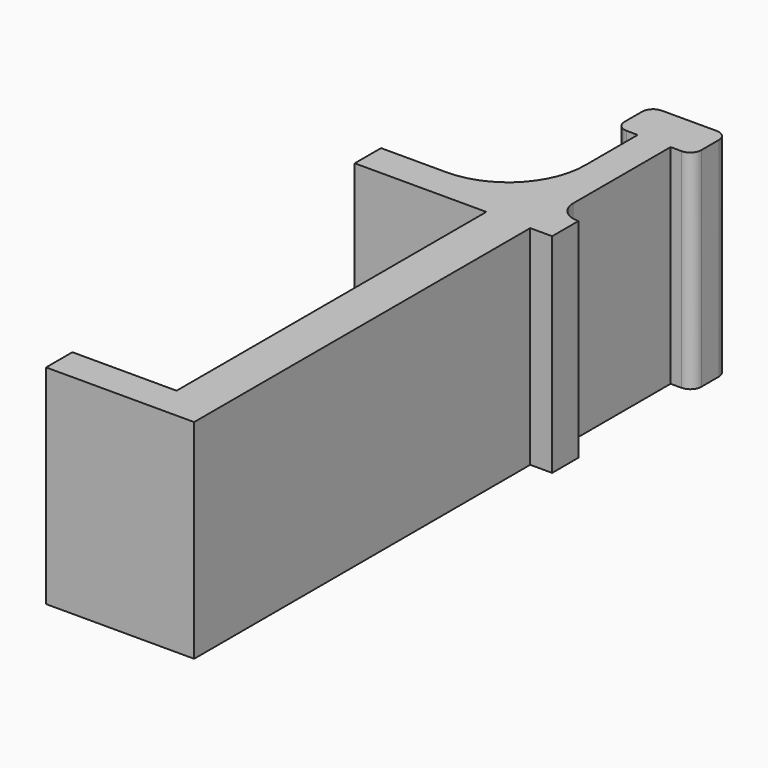
from build123d import *

# Parameters (mm, degrees)
PAD121_DEPTH   = 19
PAD121_FACE5_W = 4
PAD121_FACE5_H = 19
PAD127_DEPTH   = 0.3
SKETCH126_W    = 18
SKETCH126_H    = 19
PAD128_DEPTH   = 3
SKETCH127_W    = 3
SKETCH127_H    = 19
PAD129_DEPTH   = 15
SKETCH128_W    = 7
SKETCH128_H    = 4
PAD130_DEPTH   = 19
FILLET056_R    = 1
FILLET057_R    = 1.9
FILLET058_R    = 7


with BuildPart() as part:
    # Sketch119 → Pad121 (new body)
    with BuildSketch(Plane.XY):
        Polygon((0, 0), (-13.5, 0), (-13.5, 3), (-4, 3), (-4, 38), (0, 38), align=None)
    extrude(amount=PAD121_DEPTH)

    # Pad121 Face5 → Pad127 (add)
    with BuildSketch(Plane(origin=(-2, 38, 9.5), x_dir=(1, 0, 0), z_dir=(0, 1, 0))):
        Rectangle(PAD121_FACE5_W, PAD121_FACE5_H)
    extrude(amount=PAD127_DEPTH)

    # Sketch126 (on Face5 of Pad127) → Pad128 (join)
    with BuildSketch(Plane(origin=(0, 38.3, 0), x_dir=(-1, 0, 0), z_dir=(0, 1, 0))):
        with Locations((7, 9.5)):
            Rectangle(SKETCH126_W, SKETCH126_H)
    extrude(amount=PAD128_DEPTH)

    # Sketch127 (on Face3 of Pad128) → Pad129 (join)
    with BuildSketch(Plane(origin=(0, 41.3, 0), x_dir=(-1, 0, 0), z_dir=(0, 1, 0))):
        with Locations((1.5, 9.5)):
            Rectangle(SKETCH127_W, SKETCH127_H)
    extrude(amount=PAD129_DEPTH)

    # Sketch128 (on Face15 of Pad129) → Pad130 (join)
    with BuildSketch(Plane(origin=(0, 0, 0), x_dir=(1, 0, 0), z_dir=(0, 0, -1))):
        with Locations((-1.5, -56.3)):
            Rectangle(SKETCH128_W, SKETCH128_H)
    extrude(amount=-PAD130_DEPTH)

    # Fillet056
    fillet056_edges = [part.edges().sort_by_distance(p)[0] for p in [
        (2, 58.3, 9.5),
        (2, 54.3, 9.5),
        (-5, 58.3, 9.5),
        (-5, 54.3, 9.5),
    ]]
    fillet(fillet056_edges, radius=FILLET056_R)

    # Fillet057
    fillet057_edges = [part.edges().sort_by_distance(p)[0] for p in [
        (0, 41.3, 9.5),
    ]]
    fillet(fillet057_edges, radius=FILLET057_R)

    # Fillet058
    fillet058_edges = [part.edges().sort_by_distance(p)[0] for p in [
        (-3, 41.3, 9.5),
    ]]
    fillet(fillet058_edges, radius=FILLET058_R)


solid = part.part
